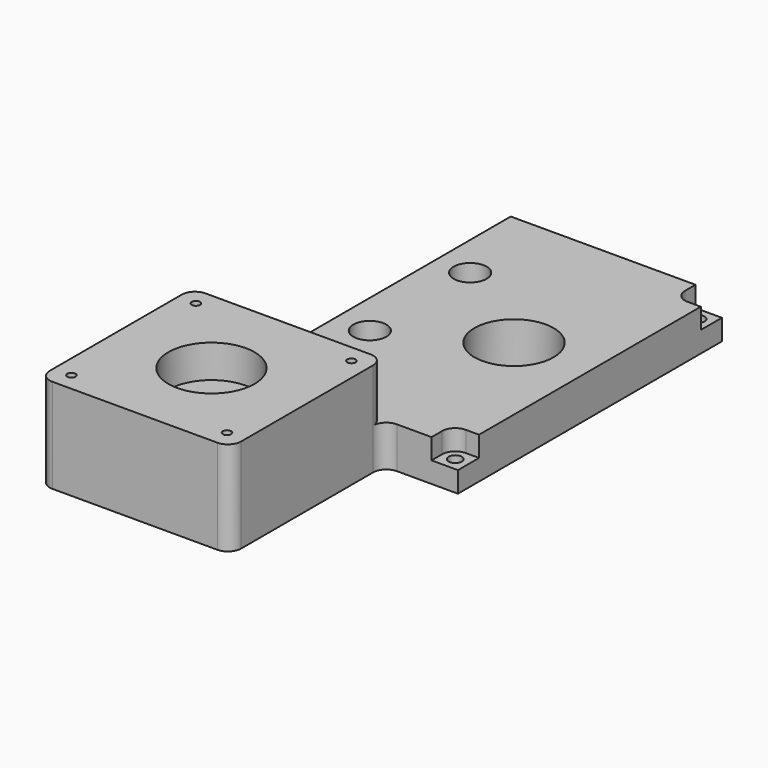
from build123d import *

# Parameters (mm, degrees)
SKETCH002_R     = 6
SKETCH002_R_2   = 3
SKETCH002_R_3   = 1.25
SKETCH002_R_4   = 2
SKETCH002_R_5   = 12
PAD_DEPTH       = 28.575
POCKET_DEPTH    = 16.075
SKETCH_R        = 13.05
POCKET001_DEPTH = 10
SKETCH005_R     = 13.05
POCKET002_DEPTH = 10
SKETCH006_R     = 3
POCKET003_DEPTH = 23
SKETCH007_R     = 5
POCKET004_DEPTH = 6.2


with BuildPart() as part:
    # Sketch002 → Pad (new body)
    with BuildSketch(Plane(origin=(0, 0, 0), x_dir=(1, 0, 0), z_dir=(0, 0, -1))):
        with BuildLine():
            Line((22.5, 0), (-41.5, 0))
            Line((-41.5, 0), (-41.5, 96))
            ThreePointArc((-41.5, 96), (-42.671582, 98.828436), (-45.500026, 100))
            Line((-53.999998, 100), (-45.500026, 100))
            ThreePointArc((-58, 104), (-56.828427, 101.171573), (-53.999998, 100))
            Line((-58, 154), (-58, 104))
            ThreePointArc((-53.999999, 158), (-56.828427, 156.828427), (-58, 154))
            Line((-53.999999, 158), (-4, 158))
            ThreePointArc((0, 154), (-1.171573, 156.828427), (-4, 158))
            Line((0, 154), (0, 104.000001))
            ThreePointArc((0, 104.000001), (1.171573, 101.171574), (4, 100.000001))
            Line((22.5, 100.000001), (4, 100.000001))
            Line((22.5, 100.000001), (22.5, 0))
        make_face()
        with Locations((-29, 129)):
            Circle(SKETCH002_R, mode=Mode.SUBTRACT)
        with Locations((-31, 66.5)):
            Circle(SKETCH002_R_2, mode=Mode.SUBTRACT)
        with Locations((-31, 28.5)):
            Circle(SKETCH002_R_2, mode=Mode.SUBTRACT)
        with Locations((-5.43, 152.57)):
            Circle(SKETCH002_R_3, mode=Mode.SUBTRACT)
        with Locations((-52.57, 152.57)):
            Circle(SKETCH002_R_3, mode=Mode.SUBTRACT)
        with Locations((-52.57, 105.43)):
            Circle(SKETCH002_R_3, mode=Mode.SUBTRACT)
        with Locations((-5.43, 105.43)):
            Circle(SKETCH002_R_3, mode=Mode.SUBTRACT)
        with Locations((18.5, 96.000001)):
            Circle(SKETCH002_R_4, mode=Mode.SUBTRACT)
        with Locations((18.5, 4)):
            Circle(SKETCH002_R_4, mode=Mode.SUBTRACT)
        with Locations((-0.5, 50)):
            Circle(SKETCH002_R_5, mode=Mode.SUBTRACT)
    extrude(amount=PAD_DEPTH)

    # Sketch004 → Pocket (cut)
    with BuildSketch(Plane.XY):
        with BuildLine():
            Line((-45, 0), (24, 0))
            Line((24, 0), (24, -104.00002))
            Line((24, -104.00002), (0, -104.00002))
            ThreePointArc((0, -104.00002), (-1.171559, -101.171587), (-3.99998, -100))
            Line((-3.99998, -100), (-45, -100))
            Line((-45, -100), (-45, 0))
        make_face()
    extrude(amount=-POCKET_DEPTH, mode=Mode.SUBTRACT)

    # Sketch → Pocket001 (cut)
    with BuildSketch(Plane(origin=(0, 0, -28.575), x_dir=(1, 0, 0), z_dir=(0, 0, -1))):
        with Locations((-29, 129)):
            Circle(SKETCH_R)
    extrude(amount=-POCKET001_DEPTH, mode=Mode.SUBTRACT)

    # Sketch005 → Pocket002 (cut)
    with BuildSketch(Plane.XY):
        with Locations((-29, -129)):
            Circle(SKETCH005_R)
    extrude(amount=-POCKET002_DEPTH, mode=Mode.SUBTRACT)

    # Sketch006 → Pocket003 (cut)
    with BuildSketch(Plane(origin=(0, 0, -28.575), x_dir=(1, 0, 0), z_dir=(0, 0, -1))):
        with Locations((-52.57, 152.57)):
            Circle(SKETCH006_R)
        with Locations((-5.43, 152.57)):
            Circle(SKETCH006_R)
        with Locations((-52.57, 105.43)):
            Circle(SKETCH006_R)
        with Locations((-5.43, 105.43)):
            Circle(SKETCH006_R)
    extrude(amount=-POCKET003_DEPTH, mode=Mode.SUBTRACT)

    # Sketch007 → Pocket004 (cut)
    with BuildSketch(Plane.XY.offset(-16.075)):
        with Locations((-31, -28.5)):
            Circle(SKETCH007_R)
        with Locations((-31, -66.5)):
            Circle(SKETCH007_R)
        with BuildLine():
            Line((14.5, 0), (22.5, 0))
            Line((22.5, 0), (22.5, -8))
            Line((18.500001, -8), (22.5, -8))
            ThreePointArc((14.5, -4), (15.671573, -6.828428), (18.500001, -8))
            Line((14.5, 0), (14.5, -4))
        make_face()
        with BuildLine():
            Line((22.5, -92.01), (22.5, -100.01))
            Line((22.5, -100.01), (14.5, -100.01))
            Line((14.5, -96.01), (14.5, -100.01))
            ThreePointArc((18.499999, -92.01), (15.671573, -93.181573), (14.5, -96.01))
            Line((18.499999, -92.01), (22.5, -92.01))
        make_face()
    extrude(amount=-POCKET004_DEPTH, mode=Mode.SUBTRACT)


solid = part.part
